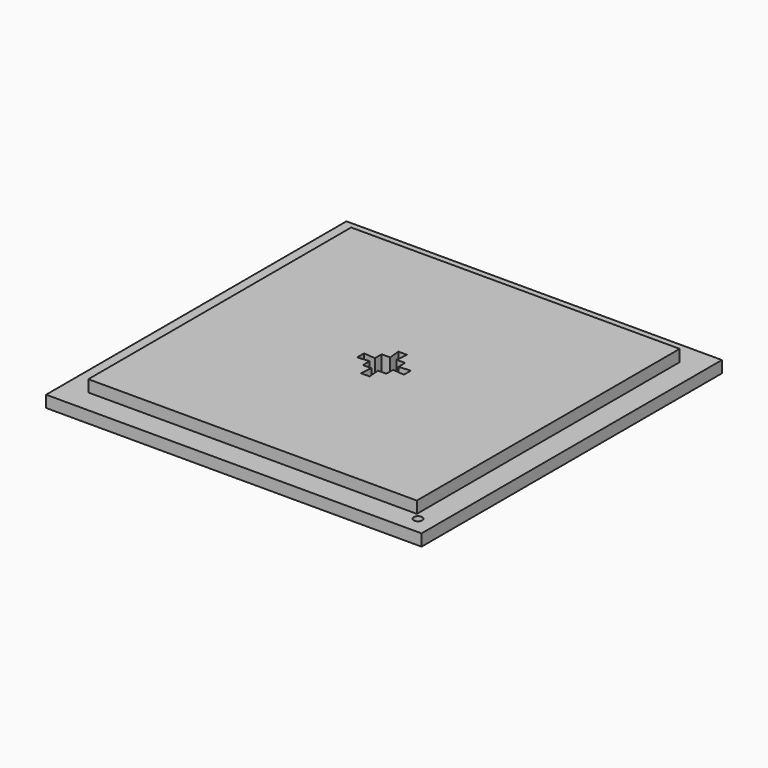
from build123d import *

# Parameters (mm, degrees)
F0_W      = 81.28
F0_H      = 81.28
F1_DEPTH  = 38.1
F2_W      = 81.28
F2_H      = 81.28
F2_W_2    = 71.12
F2_H_2    = 71.12
F3_DEPTH  = 35.56
F4_W      = 76.2
F4_H      = 76.2
F5_DEPTH  = 33.02
F7_DEPTH  = 25.4
F8_R      = 0.9525
F9_DEPTH  = 25.4
F10_R     = 0.9525
F11_DEPTH = 25.4


with BuildPart() as f1:
    # F0 (on Top) → F1 (new body)
    with BuildSketch(Plane.XY):
        Rectangle(F0_W, F0_H)
    extrude(amount=F1_DEPTH)

    # F2 (on face) → F3 (cut)
    with BuildSketch(Plane.XY.offset(38.1)):
        Rectangle(F2_W, F2_H)
        Rectangle(F2_W_2, F2_H_2, mode=Mode.SUBTRACT)
    extrude(amount=-F3_DEPTH, mode=Mode.SUBTRACT)

    # F4 (on face) → F5 (cut)
    with BuildSketch(Plane.XY.offset(38.1)):
        Rectangle(F4_W, F4_H)
    extrude(amount=-F5_DEPTH, mode=Mode.SUBTRACT)

    # F6 (on face) → F7 (cut)
    with BuildSketch(Plane.XY.offset(5.08)):
        Polygon((-0.9525, -5.067268), (0.9525, -5.067268), (0.6985, -2.54), (2.54, -2.54), (2.54, -0.6985), (5.067268, -0.9525), (5.067268, 0.9525), (2.54, 0.6985), (2.54, 2.54), (0.6985, 2.54), (0.9525, 5.067268), (-0.9525, 5.067268), (-0.6985, 2.54), (-2.54, 2.54), (-2.54, 0.6985), (-5.067268, 0.9525), (-5.067268, -0.9525), (-2.54, -0.6985), (-2.54, -2.54), (-0.6985, -2.54), align=None)
    extrude(amount=-F7_DEPTH, mode=Mode.SUBTRACT)

    # F8 (on face) → F9 (cut)
    with BuildSketch(Plane.XY.offset(2.54)):
        with Locations((-36.83, 36.83)):
            Circle(F8_R)
    extrude(amount=-F9_DEPTH, mode=Mode.SUBTRACT)

    # F10 (on face) → F11 (cut)
    with BuildSketch(Plane.XY.offset(2.54)):
        with Locations((36.83, -36.83)):
            Circle(F10_R)
    extrude(amount=-F11_DEPTH, mode=Mode.SUBTRACT)


solid = f1.part
